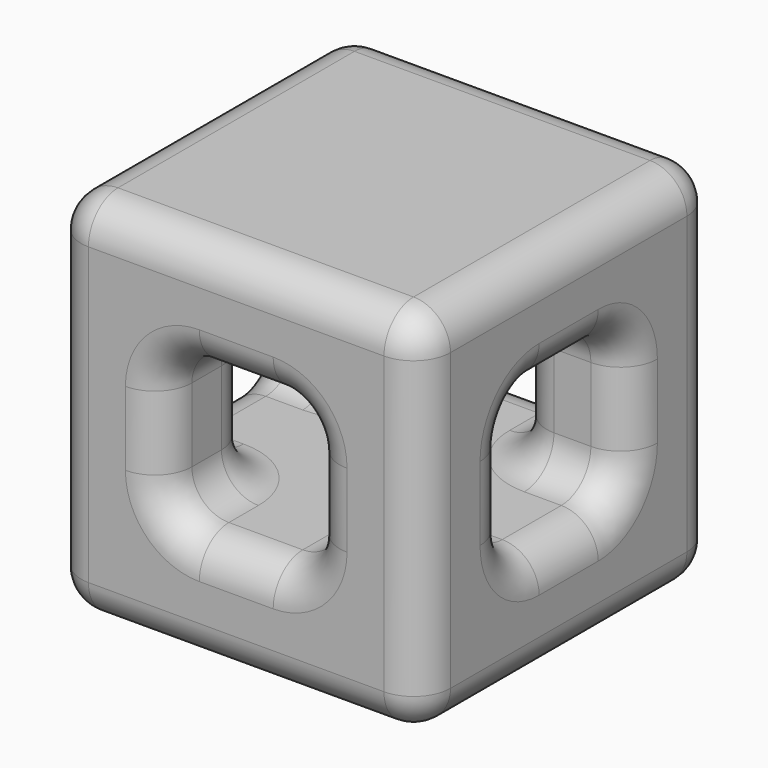
from build123d import *

# Parameters (mm, degrees)
F0_W          = 50
F0_H          = 50
F1_DEPTH      = 25
F1_DEPTH_BACK = 25
F2_W          = 20
F2_H          = 20
F3_DEPTH      = 50
F4_W          = 20
F4_H          = 20
F5_DEPTH      = 15
F6_W          = 20
F6_H          = 20
F7_DEPTH      = 15
F8_R          = 5


with BuildPart() as f1:
    # F0 (on Front) → F1 (new body, two sides)
    with BuildSketch(Plane.XZ) as f1_sk:
        Rectangle(F0_W, F0_H)
    extrude(amount=F1_DEPTH)
    extrude(f1_sk.sketch, amount=-F1_DEPTH_BACK)

    # F2 (on face) → F3 (cut, through all)
    with BuildSketch(Plane.XZ.offset(25)):
        Rectangle(F2_W, F2_H)
    extrude(amount=-F3_DEPTH, mode=Mode.SUBTRACT)

    # F4 (on face) → F5 (cut, through all)
    with BuildSketch(Plane(origin=(-25, 0, 0), x_dir=(0, -1, 0), z_dir=(-1, 0, 0))):
        Rectangle(F4_W, F4_H)
    extrude(amount=-F5_DEPTH, mode=Mode.SUBTRACT)

    # F6 (on face) → F7 (cut, through all)
    with BuildSketch(Plane.YZ.offset(25)):
        Rectangle(F6_W, F6_H)
    extrude(amount=-F7_DEPTH, mode=Mode.SUBTRACT)

    # F8
    f8_edges = [f1.edges().sort_by_distance(p)[0] for p in [
        (-25, 0, 25),
        (25, 0, 25),
        (0, 25, 10),
        (-25, 0, -25),
        (25, 0, -25),
        (0, -25, 25),
        (0, -25, -25),
        (0, 25, 25),
        (0, 25, -25),
        (25, 25, 0),
        (25, -25, 0),
        (-25, 25, 0),
        (-25, -25, 0),
        (0, 25, -10),
        (10, 25, 0),
        (-10, 25, 0),
        (10, -10, 0),
        (-17.5, 10, 10),
        (0, -25, 10),
        (0, -25, -10),
        (-10, -25, 0),
        (-25, 10, 0),
        (-17.5, -10, -10),
        (-17.5, 10, -10),
        (10, 10, 0),
        (17.5, -10, 10),
        (17.5, 10, 10),
        (17.5, -10, -10),
        (17.5, 10, -10),
        (25, -10, 0),
        (25, 10, 0),
        (-17.5, -10, 10),
        (-10, -17.5, 10),
        (10, -17.5, 10),
        (25, 0, 10),
        (10, 17.5, 10),
        (-10, 17.5, 10),
        (-25, 0, 10),
        (-10, 10, 0),
        (10, -25, 0),
        (-10, 17.5, -10),
        (-25, -10, 0),
        (-25, 0, -10),
        (10, 17.5, -10),
        (25, 0, -10),
        (10, -17.5, -10),
        (-10, -17.5, -10),
        (-10, -10, 0),
    ]]
    fillet(f8_edges, radius=F8_R)


solid = f1.part
